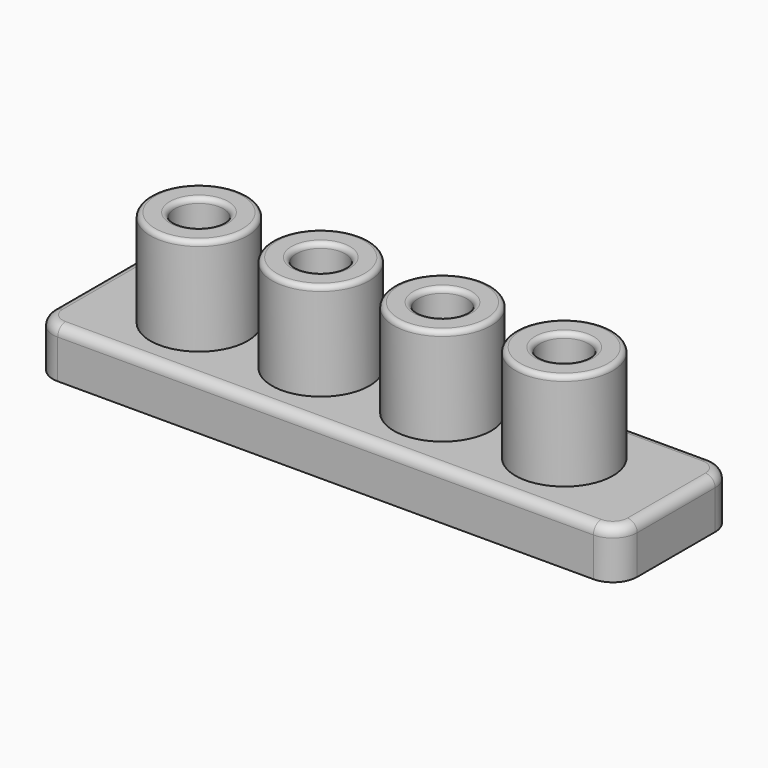
from build123d import *

# Parameters (mm, degrees)
F0_W     = 120
F0_H     = 30
F0_R     = 10
F1_DEPTH = 10
F0_R_2   = 5
F2_DEPTH = 30
F3_R     = 5
F4_R     = 2
F5_R     = 1


with BuildPart() as f1:
    # F0 (on Top) → F1 (new body)
    with BuildSketch(Plane.XY):
        with Locations((12.9920332134, 0)):
            Rectangle(F0_W, F0_H)
        with Locations((-25, 0)):
            Circle(F0_R, mode=Mode.SUBTRACT)
        Circle(F0_R, mode=Mode.SUBTRACT)
        with Locations((25, 0)):
            Circle(F0_R, mode=Mode.SUBTRACT)
        with Locations((50, 0)):
            Circle(F0_R, mode=Mode.SUBTRACT)
    extrude(amount=F1_DEPTH)

    # F0 (on Top) → F2 (join)
    with BuildSketch(Plane.XY):
        with Locations((-25, 0)):
            Circle(F0_R)
        with Locations((-25, 0)):
            Circle(F0_R_2, mode=Mode.SUBTRACT)
        Circle(F0_R)
        Circle(F0_R_2, mode=Mode.SUBTRACT)
        with Locations((25, 0)):
            Circle(F0_R)
        with Locations((25, 0)):
            Circle(F0_R_2, mode=Mode.SUBTRACT)
        with Locations((50, 0)):
            Circle(F0_R)
        with Locations((50, 0)):
            Circle(F0_R_2, mode=Mode.SUBTRACT)
    extrude(amount=F2_DEPTH)

    # F3
    f3_edges = [f1.edges().sort_by_distance(p)[0] for p in [
        (-47.007967, -15, 5),
        (-47.007967, 15, 5),
        (72.992033, -15, 5),
        (72.992033, 15, 5),
    ]]
    fillet(f3_edges, radius=F3_R)

    # F4
    f4_edges = [f1.edges().sort_by_distance(p)[0] for p in [
        (12.992033, -15, 10),
    ]]
    fillet(f4_edges, radius=F4_R)

    # F5
    f5_edges = [f1.edges().sort_by_distance(p)[0] for p in [
        (-35, 0, 30),
        (-30, 0, 30),
        (-10, 0, 30),
        (-5, 0, 30),
        (15, 0, 30),
        (20, 0, 30),
        (40, 0, 30),
        (45, 0, 30),
    ]]
    fillet(f5_edges, radius=F5_R)


solid = f1.part
